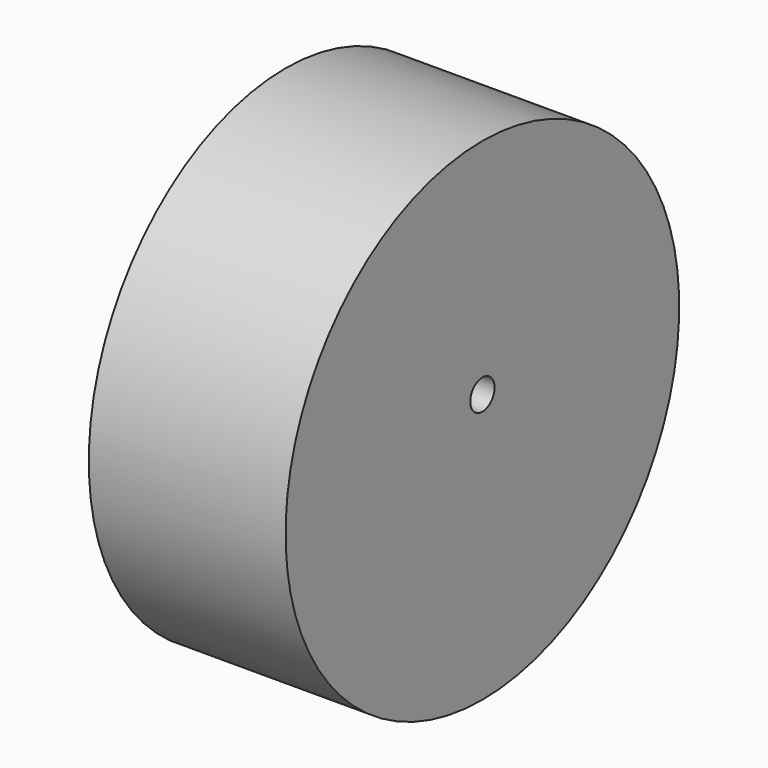
from build123d import *

# Parameters (mm, degrees)
CYLINDER268_R          = 2
CYLINDER268_DEPTH      = 26
CYLINDER267_R          = 32.5
CYLINDER267_DEPTH      = 26
CUT248_PLACEMENT_ANGLE = 90


with BuildPart() as cylinder268:
    # Cylinder268 → Cylinder268 (new body)
    with BuildSketch(Plane.XY):
        Circle(CYLINDER268_R)
    extrude(amount=CYLINDER268_DEPTH)


with BuildPart() as cut248:
    # Cylinder267 → Cylinder267 (new body)
    with BuildSketch(Plane(origin=(3, 0, 0), x_dir=(1, 0, 0), z_dir=(0, 0, 1))):
        Circle(CYLINDER267_R)
    extrude(amount=CYLINDER267_DEPTH)

    # Cut248: cut Cylinder268
    add(cylinder268.part, mode=Mode.SUBTRACT)


with BuildPart() as cut248_1:
    # Cut248 placement: moved
    add(cut248.part.moved(Location((47, 54, 10))).rotate(Axis((47, 54, 10), (0, 1, 0)), CUT248_PLACEMENT_ANGLE))


solid = cut248_1.part
